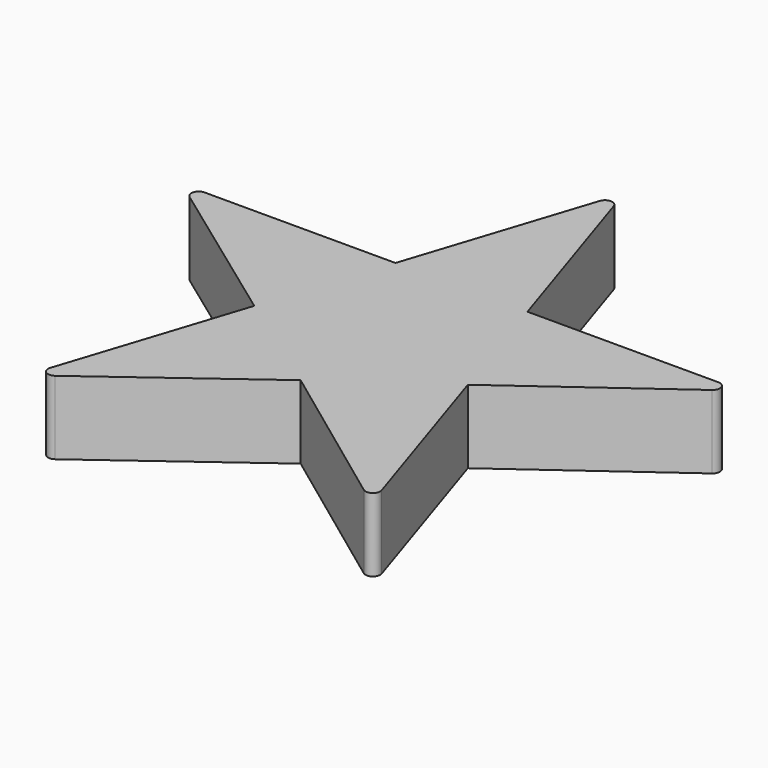
from build123d import *

# Parameters (mm, degrees)
PAD_DEPTH = 10
FILLET_R  = 1


with BuildPart() as part:
    # Sketch → Pad (new body)
    with BuildSketch(Plane.XY):
        Polygon((0, 40), (-8.98056, 12.36068), (-38.042261, 12.36068), (-14.530851, -4.72136), (-23.51141, -32.36068), (0, -15), (23.51141, -32.36068), (14.530851, -4.72136), (38.042261, 12.36068), (8.98056, 12.36068), align=None)
    extrude(amount=PAD_DEPTH)

    # Fillet
    fillet_edges = [part.edges().sort_by_distance(p)[0] for p in [
        (38.042261, 12.36068, 5),
        (0, 40, 5),
        (-38.042261, 12.36068, 5),
        (-23.51141, -32.36068, 5),
        (23.51141, -32.36068, 5),
    ]]
    fillet(fillet_edges, radius=FILLET_R)


solid = part.part
